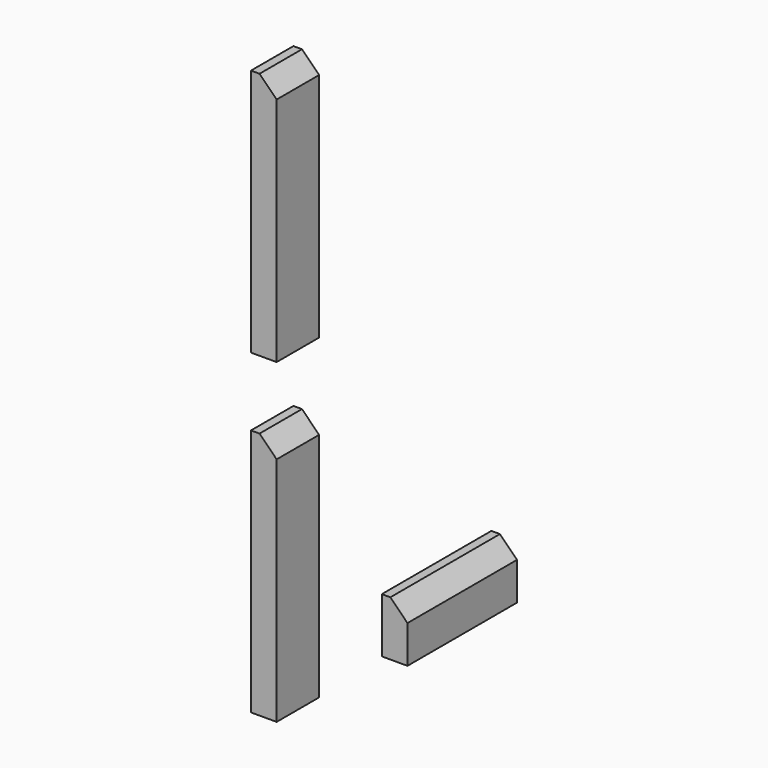
from build123d import *

# Parameters (mm, degrees)
BOX002_W        = 3
BOX002_H        = 6.2
BOX002_DEPTH    = 29
CHAMFER007_SIZE = 2
BOX004_W        = 3
BOX004_H        = 16
BOX004_DEPTH    = 6.4
CHAMFER_SIZE    = 2
BOX003_W        = 3
BOX003_H        = 6.2
BOX003_DEPTH    = 29
CHAMFER008_SIZE = 2


with BuildPart() as chamfer007:
    # Box002 → Box002 (new body)
    with BuildSketch(Plane(origin=(-1, -8.1, 14), x_dir=(1, 0, 0), z_dir=(0, 0, 1))):
        with Locations((1.5, 3.1)):
            Rectangle(BOX002_W, BOX002_H)
    extrude(amount=BOX002_DEPTH)

    # Chamfer007
    chamfer007_edges = [chamfer007.edges().sort_by_distance(p)[0] for p in [
        (2, -5, 43),
    ]]
    chamfer(chamfer007_edges, length=CHAMFER007_SIZE)


with BuildPart() as chamfer_body:
    # Box004 → Box004 (new body)
    with BuildSketch(Plane(origin=(-1, 11, 12), x_dir=(1, 0, 0), z_dir=(0, 0, 1))):
        with Locations((1.5, 8)):
            Rectangle(BOX004_W, BOX004_H)
    extrude(amount=BOX004_DEPTH)

    # Chamfer
    chamfer_edges = [chamfer_body.edges().sort_by_distance(p)[0] for p in [
        (2, 19, 18.4),
    ]]
    chamfer(chamfer_edges, length=CHAMFER_SIZE)


with BuildPart() as fusion005:
    # Box003 → Box003 (new body)
    with BuildSketch(Plane(origin=(-1, -8.1, 51), x_dir=(1, 0, 0), z_dir=(0, 0, 1))):
        with Locations((1.5, 3.1)):
            Rectangle(BOX003_W, BOX003_H)
    extrude(amount=BOX003_DEPTH)

    # Chamfer008
    chamfer008_edges = [fusion005.edges().sort_by_distance(p)[0] for p in [
        (2, -5, 80),
    ]]
    chamfer(chamfer008_edges, length=CHAMFER008_SIZE)

    # Fusion005: union Chamfer007, Chamfer body
    add(chamfer007.part)
    add(chamfer_body.part)


solid = fusion005.part
